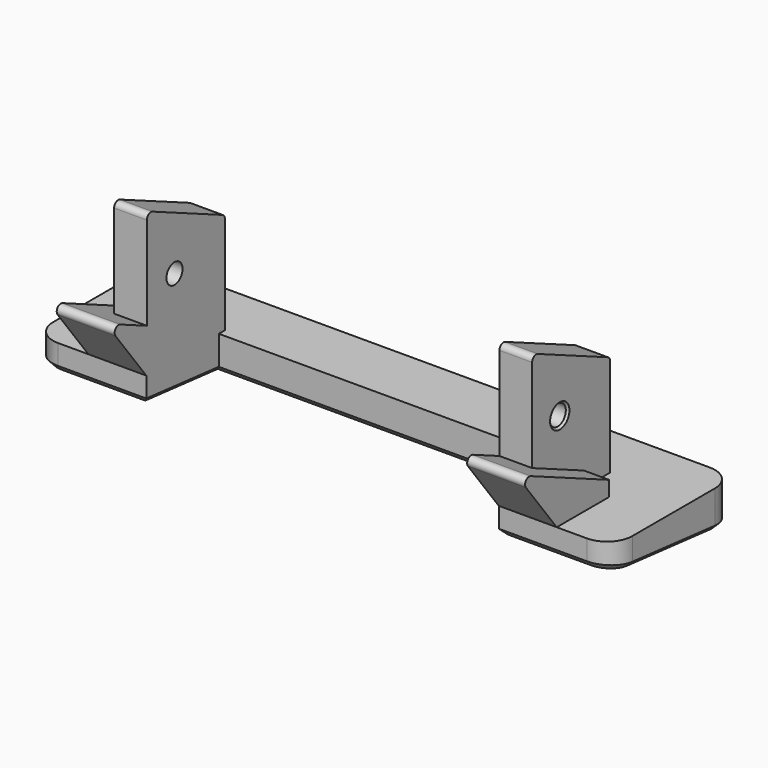
from build123d import *

# Parameters (mm, degrees)
SKETCH018_W     = 115
SKETCH018_H     = 40.5
PAD004_DEPTH    = 8
PAD005_DEPTH    = 46.5
SKETCH020_R     = 2
PAD006_DEPTH    = 6.5
SKETCH021_W     = 70
SKETCH021_H     = 18
POCKET014_DEPTH = 36.655
POCKET020_DEPTH = 115.001
SKETCH030_W     = 70
SKETCH030_H     = 13.12
POCKET021_DEPTH = 10.001
FILLET003_R     = 5
FILLET004_R     = 1
POCKET024_DEPTH = 115.001
CHAMFER008_SIZE = 1
CHAMFER009_SIZE = 0.4


with BuildPart() as part:
    # Sketch018 → Pad004 (new body)
    with BuildSketch(Plane.XY):
        with Locations((0, -9.25)):
            Rectangle(SKETCH018_W, SKETCH018_H)
    extrude(amount=-PAD004_DEPTH)

    # Sketch019 (on DatumPlane) → Pad005 (join, symmetric)
    with BuildSketch(Plane.YZ):
        Polygon((-29.5, 0), (-29.5, 13.12), (-6.5, 3), (-6.5, 0), align=None)
    extrude(amount=PAD005_DEPTH, both=True)

    # Sketch020 (on DatumPlane) → Pad006 (join)
    with BuildSketch(Plane.YZ.offset(41.5)):
        Polygon((-19.35, 8.654), (-19.35, 28.654), (0, 20.14), (0, 0), (-6.5, 0), (-6.5, 3), align=None)
        with Locations((-12.5, 15)):
            Circle(SKETCH020_R, mode=Mode.SUBTRACT)
    pad006 = extrude(amount=-PAD006_DEPTH)

    # Mirrored: Pad006 across YZ
    add(pad006.mirror(Plane.YZ))

    # Sketch021 (on Face5 of Mirrored) → Pocket014 (cut, through all)
    with BuildSketch(Plane(origin=(0, 0, -8), x_dir=(1, 0, 0), z_dir=(0, 0, -1))):
        with Locations((0, 10.5)):
            Rectangle(SKETCH021_W, SKETCH021_H)
    extrude(amount=-POCKET014_DEPTH, mode=Mode.SUBTRACT)

    # Sketch029 (on Face3 of Pocket014) → Pocket020 (cut, through all)
    with BuildSketch(Plane.YZ.offset(57.5)):
        Polygon((-29.5, 13.12), (-29.5, -8), (-19.5, -8), (-19.5, 0), align=None)
    extrude(amount=-POCKET020_DEPTH, mode=Mode.SUBTRACT)

    # Sketch030 (on Face31 of Pocket020) → Pocket021 (cut, through all)
    with BuildSketch(Plane(origin=(0, -19.5, 0), x_dir=(-1, 0, 0), z_dir=(0, 1, 0))):
        with Locations((0, 6.56)):
            Rectangle(SKETCH030_W, SKETCH030_H)
    extrude(amount=-POCKET021_DEPTH, mode=Mode.SUBTRACT)

    # Fillet003
    fillet003_edges = [part.edges().sort_by_distance(p)[0] for p in [
        (-57.5, -19.5, -4),
        (-57.5, 11, -4),
        (57.5, -19.5, -4),
        (57.5, 11, -4),
    ]]
    fillet(fillet003_edges, radius=FILLET003_R)

    # Fillet004
    fillet004_edges = [part.edges().sort_by_distance(p)[0] for p in [
        (-40.75, -29.5, 13.12),
        (-38.25, -19.35, 28.654),
        (40.75, -29.5, 13.12),
        (38.25, -19.35, 28.654),
        (38.25, 0, 20.14),
        (-38.25, 0, 20.14),
    ]]
    fillet(fillet004_edges, radius=FILLET004_R)

    # Sketch035 (on Face16 of Fillet004) → Pocket024 (cut, through all)
    with BuildSketch(Plane(origin=(-57.5, 0, 0), x_dir=(0, -1, 0), z_dir=(-1, 0, 0))):
        Polygon((19.5, -5), (-11, -8), (19.5, -8), align=None)
    extrude(amount=-POCKET024_DEPTH, mode=Mode.SUBTRACT)

    # Chamfer008
    chamfer008_edges = [part.edges().sort_by_distance(p)[0] for p in [
        (-56.039786, -18.031276, -5.144465),
        (-57.5, -4.25, -6.5),
        (-56.039786, 9.531276, -7.855535),
        (0, 11, -8),
        (56.039786, 9.531276, -7.855535),
        (57.5, -4.25, -6.5),
        (56.039786, -18.031276, -5.144465),
        (43.75, -19.5, -5),
        (35, -10.5, -5.885246),
        (0, -1.5, -6.770492),
        (-35, -10.5, -5.885246),
        (-43.75, -19.5, -5),
    ]]
    chamfer(chamfer008_edges, length=CHAMFER008_SIZE)

    # Chamfer009
    chamfer009_edges = [part.edges().sort_by_distance(p)[0] for p in [
        (41.5, -14.5, 15),
        (-41.5, -14.5, 15),
    ]]
    chamfer(chamfer009_edges, length=CHAMFER009_SIZE)


with BuildPart() as part_1:
    # Body003 placement: moved
    add(part.part.moved(Location((-41.5, 0, 0))))


solid = part_1.part
